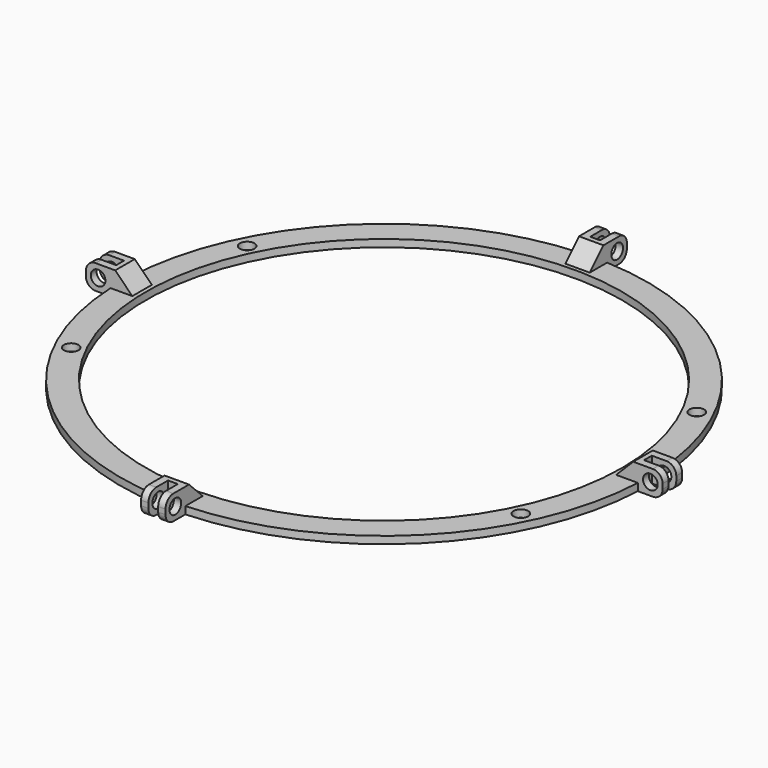
from build123d import *

# Parameters (mm, degrees)
CYLINDER001_R              = 1.5
CYLINDER001_DEPTH          = 10
BOX001_W                   = 5
BOX001_H                   = 2
BOX001_DEPTH               = 5
BOX_W                      = 5
BOX_H                      = 5
BOX_DEPTH                  = 10
FILLET_R                   = 2
FILLET_PLACEMENT_ANGLE     = 90
CHAMFER_SIZE               = 4
SKETCH005_R                = 54
SKETCH005_R_2              = 48.75
PAD003_DEPTH               = 1.5
SKETCH006_R                = 1.5
POCKET002_DEPTH            = 1.501
CYLINDER003_R              = 1.5
CYLINDER003_DEPTH          = 10
BOX005_W                   = 5
BOX005_H                   = 2
BOX005_DEPTH               = 5
BOX004_W                   = 5
BOX004_H                   = 5
BOX004_DEPTH               = 10
FILLET002_R                = 2
FILLET002_PLACEMENT_ANGLE  = 90
CHAMFER002_SIZE            = 4
CHAMFER002_PLACEMENT_ANGLE = 90
CYLINDER004_R              = 1.5
CYLINDER004_DEPTH          = 10
BOX007_W                   = 5
BOX007_H                   = 2
BOX007_DEPTH               = 5
BOX006_W                   = 5
BOX006_H                   = 5
BOX006_DEPTH               = 10
FILLET003_R                = 2
FILLET003_PLACEMENT_ANGLE  = 90
CHAMFER003_SIZE            = 4
CHAMFER003_PLACEMENT_ANGLE = 180
CYLINDER005_R              = 1.5
CYLINDER005_DEPTH          = 10
BOX009_W                   = 5
BOX009_H                   = 2
BOX009_DEPTH               = 5
BOX008_W                   = 5
BOX008_H                   = 5
BOX008_DEPTH               = 10
FILLET004_R                = 2
FILLET004_PLACEMENT_ANGLE  = 90
CHAMFER004_SIZE            = 4
CHAMFER004_PLACEMENT_ANGLE = 90


with BuildPart() as screw:
    # Cylinder001 → Cylinder001 (new body)
    with BuildSketch(Plane(origin=(2.5, -2.75, 7.5), x_dir=(0, 0, 1), z_dir=(0, 1, 0))):
        Circle(CYLINDER001_R)
    extrude(amount=CYLINDER001_DEPTH)


with BuildPart() as extleghole:
    # Box001 → Box001 (new body)
    with BuildSketch(Plane(origin=(0, 1.5, 5), x_dir=(1, 0, 0), z_dir=(0, 0, 1))):
        with Locations((2.5, 1)):
            Rectangle(BOX001_W, BOX001_H)
    extrude(amount=BOX001_DEPTH)


with BuildPart() as screwext:
    # Box → Box (new body)
    with BuildSketch(Plane.XY):
        with Locations((2.5, 2.5)):
            Rectangle(BOX_W, BOX_H)
    extrude(amount=BOX_DEPTH)

    # Cut: cut ExtLegHole
    add(extleghole.part, mode=Mode.SUBTRACT)

    # Cut001: cut Screw
    add(screw.part, mode=Mode.SUBTRACT)

    # Fillet
    fillet_edges = [screwext.edges().sort_by_distance(p)[0] for p in [
        (0, 0.75, 10),
        (0, 4.25, 10),
        (5, 0.75, 10),
        (5, 4.25, 10),
    ]]
    fillet(fillet_edges, radius=FILLET_R)


with BuildPart() as screwext_1:
    # Fillet placement: moved
    add(screwext.part.moved(Location((49, -2.5, 5))).rotate(Axis((49, -2.5, 5), (0, 1, 0)), FILLET_PLACEMENT_ANGLE))

    # Chamfer
    chamfer_edges = [screwext_1.edges().sort_by_distance(p)[0] for p in [
        (49, 0, 5),
    ]]
    chamfer(chamfer_edges, length=CHAMFER_SIZE)


with BuildPart() as fusion:
    # Sketch005 → Pad003 (new body)
    with BuildSketch(Plane.XY):
        Circle(SKETCH005_R)
        Circle(SKETCH005_R_2, mode=Mode.SUBTRACT)
    extrude(amount=PAD003_DEPTH)

    # Sketch006 (on Face4 of Pad003) → Pocket002 (cut, through all)
    with BuildSketch(Plane.XY.offset(1.5)):
        with Locations((46, 22.5)):
            Circle(SKETCH006_R)
        with Locations((-46, -22.5)):
            Circle(SKETCH006_R)
        with Locations((-46, 22.5)):
            Circle(SKETCH006_R)
        with Locations((46, -22.5)):
            Circle(SKETCH006_R)
    extrude(amount=-POCKET002_DEPTH, mode=Mode.SUBTRACT)

    # Fusion: union ScrewExt
    add(screwext_1.part)


with BuildPart() as screw002:
    # Cylinder003 → Cylinder003 (new body)
    with BuildSketch(Plane(origin=(2.5, -2.75, 7.5), x_dir=(0, 0, 1), z_dir=(0, 1, 0))):
        Circle(CYLINDER003_R)
    extrude(amount=CYLINDER003_DEPTH)


with BuildPart() as extleghole002:
    # Box005 → Box005 (new body)
    with BuildSketch(Plane(origin=(0, 1.5, 5), x_dir=(1, 0, 0), z_dir=(0, 0, 1))):
        with Locations((2.5, 1)):
            Rectangle(BOX005_W, BOX005_H)
    extrude(amount=BOX005_DEPTH)


with BuildPart() as fusion001:
    # Box004 → Box004 (new body)
    with BuildSketch(Plane.XY):
        with Locations((2.5, 2.5)):
            Rectangle(BOX004_W, BOX004_H)
    extrude(amount=BOX004_DEPTH)

    # Cut004: cut ExtLegHole002
    add(extleghole002.part, mode=Mode.SUBTRACT)

    # Cut005: cut Screw002
    add(screw002.part, mode=Mode.SUBTRACT)

    # Fillet002
    fillet002_edges = [fusion001.edges().sort_by_distance(p)[0] for p in [
        (0, 0.75, 10),
        (0, 4.25, 10),
        (5, 0.75, 10),
        (5, 4.25, 10),
    ]]
    fillet(fillet002_edges, radius=FILLET002_R)


with BuildPart() as fusion001_1:
    # Fillet002 placement: moved
    add(fusion001.part.moved(Location((49, -2.5, 5))).rotate(Axis((49, -2.5, 5), (0, 1, 0)), FILLET002_PLACEMENT_ANGLE))

    # Chamfer002
    chamfer002_edges = [fusion001_1.edges().sort_by_distance(p)[0] for p in [
        (49, 0, 5),
    ]]
    chamfer(chamfer002_edges, length=CHAMFER002_SIZE)


with BuildPart() as fusion001_2:
    # Chamfer002 placement: moved
    add(fusion001_1.part.rotate(Axis((0, 0, 0), (0, 0, 1)), CHAMFER002_PLACEMENT_ANGLE))

    # Fusion001: union Fusion
    add(fusion.part)


with BuildPart() as screw003:
    # Cylinder004 → Cylinder004 (new body)
    with BuildSketch(Plane(origin=(2.5, -2.75, 7.5), x_dir=(0, 0, 1), z_dir=(0, 1, 0))):
        Circle(CYLINDER004_R)
    extrude(amount=CYLINDER004_DEPTH)


with BuildPart() as extleghole003:
    # Box007 → Box007 (new body)
    with BuildSketch(Plane(origin=(0, 1.5, 5), x_dir=(1, 0, 0), z_dir=(0, 0, 1))):
        with Locations((2.5, 1)):
            Rectangle(BOX007_W, BOX007_H)
    extrude(amount=BOX007_DEPTH)


with BuildPart() as fusion002:
    # Box006 → Box006 (new body)
    with BuildSketch(Plane.XY):
        with Locations((2.5, 2.5)):
            Rectangle(BOX006_W, BOX006_H)
    extrude(amount=BOX006_DEPTH)

    # Cut006: cut ExtLegHole003
    add(extleghole003.part, mode=Mode.SUBTRACT)

    # Cut007: cut Screw003
    add(screw003.part, mode=Mode.SUBTRACT)

    # Fillet003
    fillet003_edges = [fusion002.edges().sort_by_distance(p)[0] for p in [
        (0, 0.75, 10),
        (0, 4.25, 10),
        (5, 0.75, 10),
        (5, 4.25, 10),
    ]]
    fillet(fillet003_edges, radius=FILLET003_R)


with BuildPart() as fusion002_1:
    # Fillet003 placement: moved
    add(fusion002.part.moved(Location((49, -2.5, 5))).rotate(Axis((49, -2.5, 5), (0, 1, 0)), FILLET003_PLACEMENT_ANGLE))

    # Chamfer003
    chamfer003_edges = [fusion002_1.edges().sort_by_distance(p)[0] for p in [
        (49, 0, 5),
    ]]
    chamfer(chamfer003_edges, length=CHAMFER003_SIZE)


with BuildPart() as fusion002_2:
    # Chamfer003 placement: moved
    add(fusion002_1.part.rotate(Axis((0, 0, 0), (0, 0, 1)), CHAMFER003_PLACEMENT_ANGLE))

    # Fusion002: union Fusion001
    add(fusion001_2.part)


with BuildPart() as screw004:
    # Cylinder005 → Cylinder005 (new body)
    with BuildSketch(Plane(origin=(2.5, -2.75, 7.5), x_dir=(0, 0, 1), z_dir=(0, 1, 0))):
        Circle(CYLINDER005_R)
    extrude(amount=CYLINDER005_DEPTH)


with BuildPart() as extleghole004:
    # Box009 → Box009 (new body)
    with BuildSketch(Plane(origin=(0, 1.5, 5), x_dir=(1, 0, 0), z_dir=(0, 0, 1))):
        with Locations((2.5, 1)):
            Rectangle(BOX009_W, BOX009_H)
    extrude(amount=BOX009_DEPTH)


with BuildPart() as obj1:
    # Box008 → Box008 (new body)
    with BuildSketch(Plane.XY):
        with Locations((2.5, 2.5)):
            Rectangle(BOX008_W, BOX008_H)
    extrude(amount=BOX008_DEPTH)

    # Cut008: cut ExtLegHole004
    add(extleghole004.part, mode=Mode.SUBTRACT)

    # Cut009: cut Screw004
    add(screw004.part, mode=Mode.SUBTRACT)

    # Fillet004
    fillet004_edges = [obj1.edges().sort_by_distance(p)[0] for p in [
        (0, 0.75, 10),
        (0, 4.25, 10),
        (5, 0.75, 10),
        (5, 4.25, 10),
    ]]
    fillet(fillet004_edges, radius=FILLET004_R)


with BuildPart() as obj1_1:
    # Fillet004 placement: moved
    add(obj1.part.moved(Location((49, -2.5, 5))).rotate(Axis((49, -2.5, 5), (0, 1, 0)), FILLET004_PLACEMENT_ANGLE))

    # Chamfer004
    chamfer004_edges = [obj1_1.edges().sort_by_distance(p)[0] for p in [
        (49, 0, 5),
    ]]
    chamfer(chamfer004_edges, length=CHAMFER004_SIZE)


with BuildPart() as obj1_2:
    # Chamfer004 placement: moved
    add(obj1_1.part.rotate(Axis((0, 0, 0), (0, 0, -1)), CHAMFER004_PLACEMENT_ANGLE))

    # Fusion003: union Fusion002
    add(fusion002_2.part)


solid = obj1_2.part
